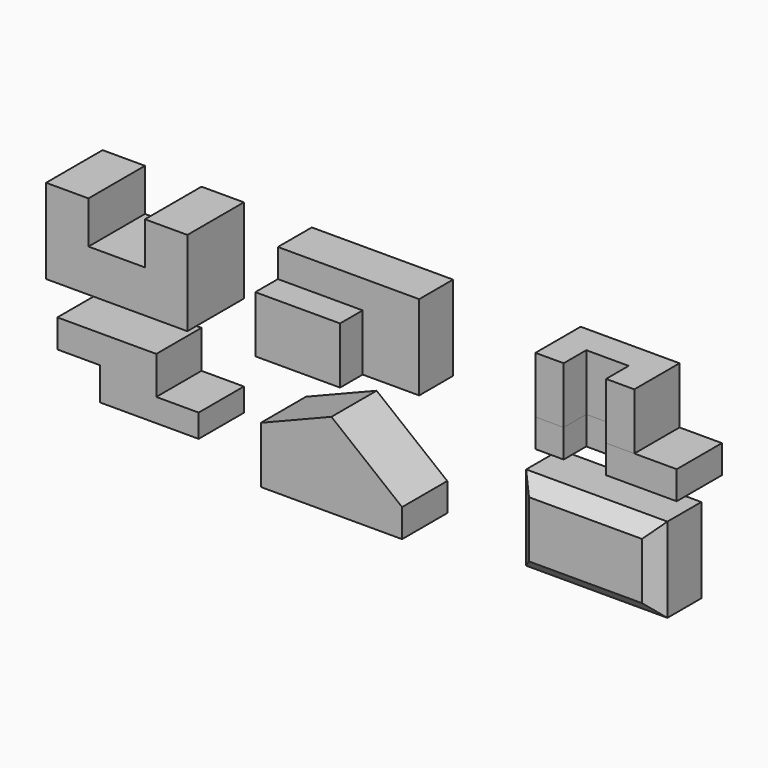
from build123d import *

# Parameters (mm, degrees)
F2_DEPTH  = 25.4
F3_W      = 254
F3_H      = 152.4
F4_DEPTH  = 25.4
F5_DEPTH  = 101.6
F6_DEPTH  = 101.6
F7_W      = 101.6
F7_H      = 50.8
F8_DEPTH  = 152.4
F9_W      = 152.4
F9_H      = 50.8
F10_DEPTH = 50.8
F12_DEPTH = 152.4
F11_W     = 76.2
F11_H     = 101.6
F13_DEPTH = 50.8
F15_DEPTH = 101.6
F17_DEPTH = 101.6
F18_W     = 254
F18_H     = 152.4
F19_DEPTH = 101.6
F20_SIZE  = 25.4


with BuildPart() as f2:
    # F1 (on face) → F2 (new body)
    with BuildSketch(Plane.XZ):
        Polygon((76.2, 152.4), (0, 152.4), (0, 0), (254, 0), (254, 152.4), (177.8, 152.4), (177.8, 76.2), (76.2, 76.2), align=None)
    extrude(amount=F2_DEPTH)

    # F5 (add): a face of the model
    f5_faces = [f2.faces().sort_by_distance(p)[0] for p in [
        (127, -25.4, 66.675),
    ]]
    extrude(f5_faces, amount=F5_DEPTH)


with BuildPart() as f4:
    # F3 (on Front) → F4 (new body)
    with BuildSketch(Plane.XZ):
        with Locations((503.1259218282, 76.2)):
            Rectangle(F3_W, F3_H)
    extrude(amount=F4_DEPTH)

    # F6 (add): a face of the model
    f6_faces = [f4.faces().sort_by_distance(p)[0] for p in [
        (503.1259218282, -25.4, 76.2),
    ]]
    extrude(f6_faces, amount=F6_DEPTH)

    # F7 (on face) → F8 (cut)
    with BuildSketch(Plane.XY.offset(152.4)):
        with Locations((579.3259218282, -101.6)):
            Rectangle(F7_W, F7_H)
    extrude(amount=-F8_DEPTH, mode=Mode.SUBTRACT)

    # F9 (on face) → F10 (cut)
    with BuildSketch(Plane.XZ.offset(127)):
        with Locations((452.3259218282, 127)):
            Rectangle(F9_W, F9_H)
    extrude(amount=-F10_DEPTH, mode=Mode.SUBTRACT)


with BuildPart() as f12:
    # F11 (on Top) → F12 (new body)
    with BuildSketch(Plane.XY):
        Polygon((1037.2558647942, 0), (859.4558647942, 0), (859.4558647942, -101.6), (910.2558647942, -101.6), (910.2558647942, -50.8), (986.4558647942, -50.8), (986.4558647942, -101.6), (1037.2558647942, -101.6), align=None)
    extrude(amount=F12_DEPTH)


with BuildPart() as f13:
    # F11 (on Top) → F13 (new body)
    with BuildSketch(Plane.XY):
        Polygon((1037.2558647942, 0), (859.4558647942, 0), (859.4558647942, -101.6), (910.2558647942, -101.6), (910.2558647942, -50.8), (986.4558647942, -50.8), (986.4558647942, -101.6), (1037.2558647942, -101.6), align=None)
        with Locations((1075.3558647942, -50.8)):
            Rectangle(F11_W, F11_H)
    extrude(amount=F13_DEPTH)


with BuildPart() as f15:
    # F14 (on Front) → F15 (new body)
    with BuildSketch(Plane.XZ):
        Polygon((177.8, -71.0350205056), (0, -71.0350205056), (0, -121.8350205056), (76.2, -121.8350205056), (76.2, -180.7503772258), (254, -180.7503772258), (254, -139.0888045003), (177.8, -139.0888045003), align=None)
    extrude(amount=F15_DEPTH)


with BuildPart() as f17:
    # F16 (on Front) → F17 (new body)
    with BuildSketch(Plane.XZ):
        Polygon((365.6903495645, -118.9615701005), (365.6903495645, -220.5615701005), (619.6903495645, -220.5615701005), (619.6903495645, -169.7615701005), (492.6903495645, -68.1615701005), align=None)
    extrude(amount=F17_DEPTH)


with BuildPart() as f19:
    # F18 (on Front) → F19 (new body)
    with BuildSketch(Plane.XZ):
        with Locations((949.4231004715, -130.6987637758)):
            Rectangle(F18_W, F18_H)
    extrude(amount=F19_DEPTH)

    # F20
    f20_edges = [f19.edges().sort_by_distance(p)[0] for p in [
        (822.4231, -101.6, -130.698764),
        (949.4231, -101.6, -206.898764),
        (1076.4231, -101.6, -130.698764),
        (949.4231, -101.6, -54.498764),
    ]]
    chamfer(f20_edges, length=F20_SIZE)


solid = Compound([f2.part, f4.part, f12.part, f13.part, f15.part, f17.part, f19.part])
